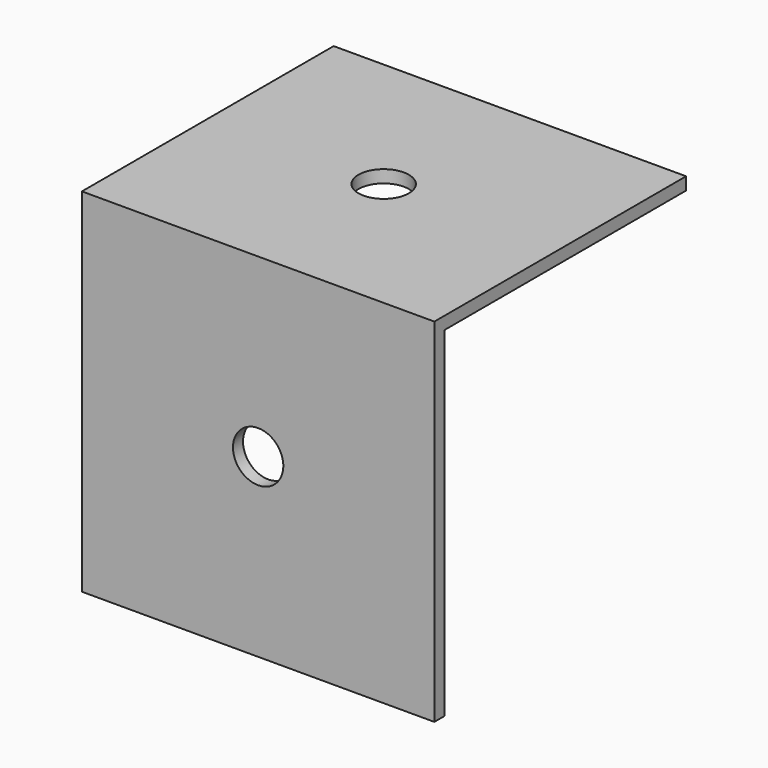
from build123d import *

# Parameters (mm, degrees)
F0_W     = 88.9
F0_H     = 88.9
F1_DEPTH = 3.175
F2_W     = 88.9
F2_H     = 3.175
F3_DEPTH = 76.2
F4_R     = 6.35
F5_DEPTH = 3.175
F6_R     = 6.35
F7_DEPTH = 3.175


with BuildPart() as f1:
    # F0 (on Front) → F1 (new body)
    with BuildSketch(Plane.XZ):
        Rectangle(F0_W, F0_H)
    extrude(amount=F1_DEPTH)

    # F2 (on face) → F3 (join)
    with BuildSketch(Plane(origin=(0, 0, 0), x_dir=(-1, 0, 0), z_dir=(0, 1, 0))):
        with Locations((0, 42.8625)):
            Rectangle(F2_W, F2_H)
    extrude(amount=F3_DEPTH)

    # F4 (on face) → F5 (cut)
    with BuildSketch(Plane(origin=(0, 0, 0), x_dir=(-1, 0, 0), z_dir=(0, 1, 0))):
        Circle(F4_R)
    extrude(amount=-F5_DEPTH, mode=Mode.SUBTRACT)

    # F6 (on face) → F7 (cut)
    with BuildSketch(Plane.XY.offset(44.45)):
        with Locations((0, 36.406659)):
            Circle(F6_R)
    extrude(amount=-F7_DEPTH, mode=Mode.SUBTRACT)


solid = f1.part
